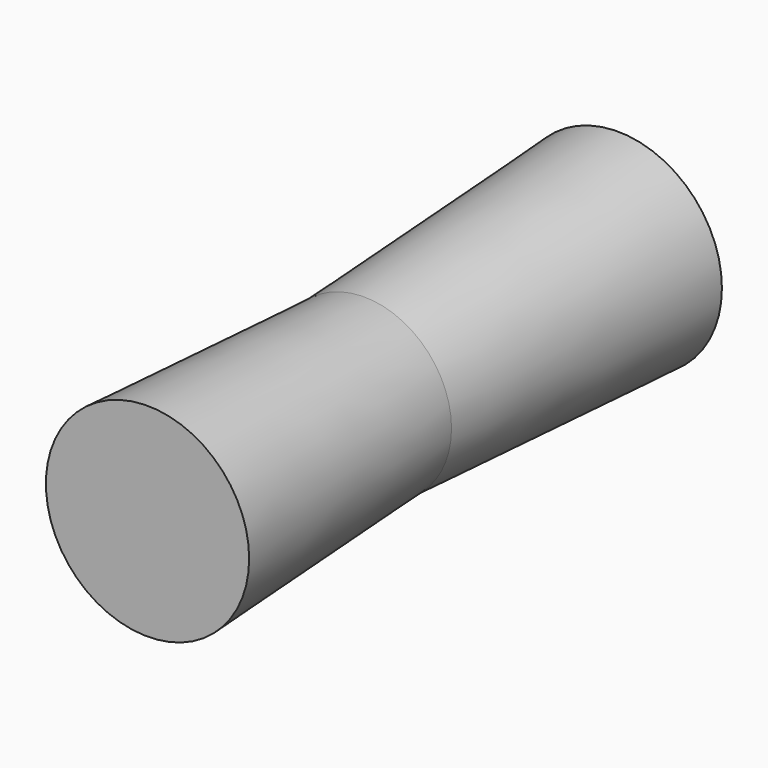
from build123d import *

# Parameters (mm, degrees)
F0_R          = 33.021976076
F1_DEPTH      = 119.78329
F1_TAPER      = -3
F1_DEPTH_BACK = 102.22502
F1_TAPER_BACK = -3


with BuildPart() as f1:
    # F0 (on Front) → F1 (new body, two sides)
    with BuildSketch(Plane.XZ) as f1_sk:
        Circle(F0_R)
    extrude(amount=-F1_DEPTH, taper=F1_TAPER)
    extrude(f1_sk.sketch, amount=F1_DEPTH_BACK, taper=F1_TAPER_BACK)


solid = f1.part
